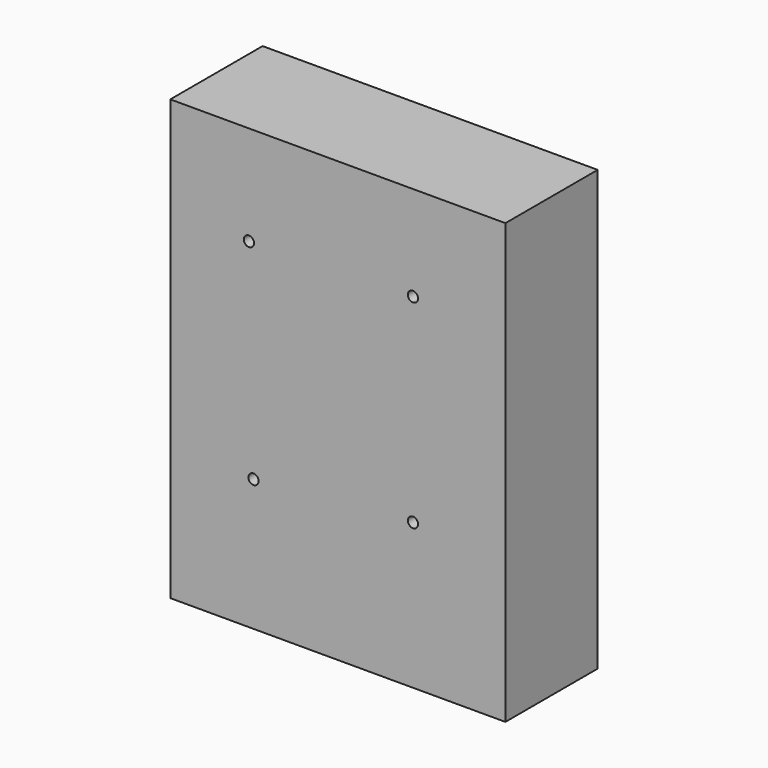
from build123d import *

# Parameters (mm, degrees)
F0_W     = 73.777101934
F0_H     = 96.673451364
F1_DEPTH = 25.4
F3_D     = 2.2606


with BuildPart() as f1:
    # F0 (on Front) → F1 (new body)
    with BuildSketch(Plane.XZ):
        with Locations((7.5049102306, 0.7632113993)):
            Rectangle(F0_W, F0_H)
    extrude(amount=F1_DEPTH)

    # F3 (through all)
    with Locations(Plane.XZ.offset(25.4)):
        with Locations((-12.0841795579, 27.2212084383), (24.0411590785, 28.2388255), (-11.0665680841, -18.571479246), (24.0411590785, -15.5186336488)):
            Hole(F3_D / 2)


solid = f1.part
